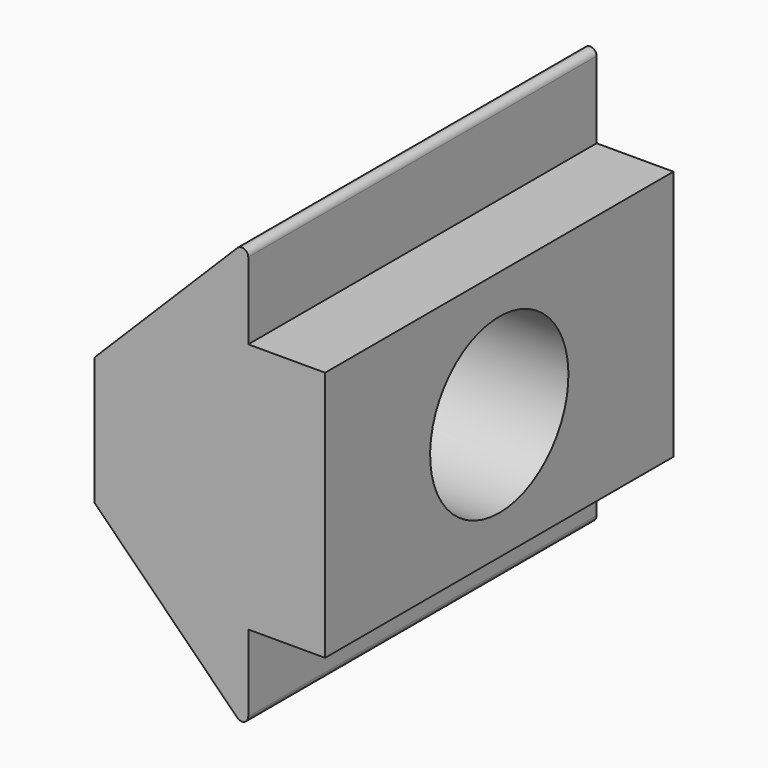
from build123d import *

# Parameters (mm, degrees)
PAD027_DEPTH            = 8.5
SKETCH076_R             = 3.375
HOLE015_DEPTH           = 9.001
FILLET005_R             = 0.25
BODY029_PLACEMENT_ANGLE = 90


with BuildPart() as part:
    # Sketch075 → Pad027 (new body, symmetric)
    with BuildSketch(Plane.XZ):
        Polygon((-4.9, -3), (-4.9, 0), (4.9, 0), (4.9, -3), (8.5, -3), (2.5, -9), (-2.5, -9), (-8.5, -3), align=None)
    extrude(amount=PAD027_DEPTH, both=True)

    # Sketch076 → Hole015 (cut, through all)
    with BuildSketch(Plane.XY):
        Circle(SKETCH076_R)
    extrude(amount=-HOLE015_DEPTH, mode=Mode.SUBTRACT)

    # Fillet005
    fillet005_edges = [part.edges().sort_by_distance(p)[0] for p in [
        (8.5, 0, -3),
        (-8.5, 0, -3),
    ]]
    fillet(fillet005_edges, radius=FILLET005_R)


with BuildPart() as part_1:
    # Body029 placement: moved
    add(part.part.moved(Location((-2, -12, 0))).rotate(Axis((-2, -12, 0), (0, 1, 0)), BODY029_PLACEMENT_ANGLE))


solid = part_1.part
